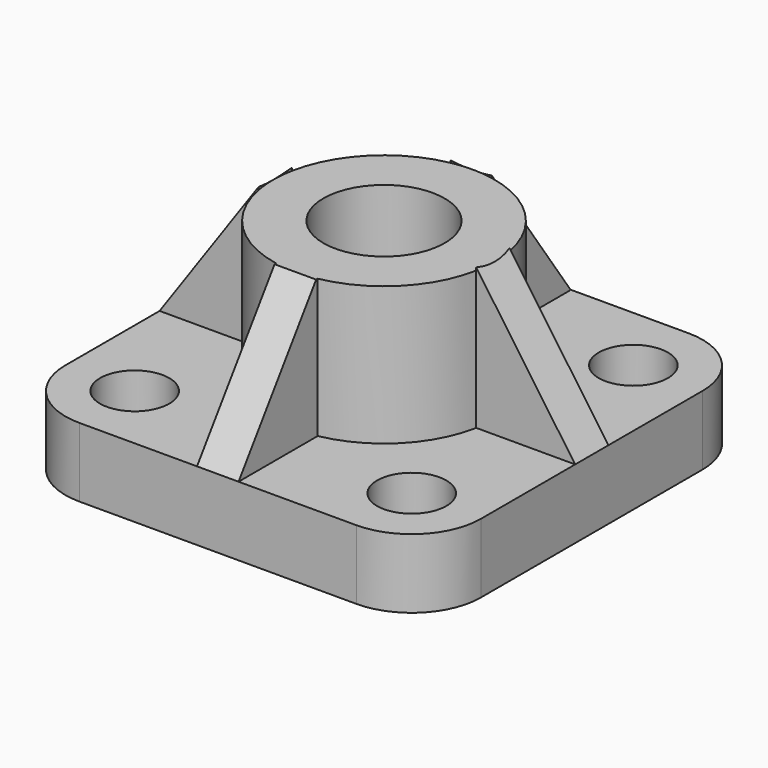
from build123d import *

# Parameters (mm, degrees)
F0_W      = 60
F0_H      = 60
F0_W_2    = 40
F0_H_2    = 40
F1_DEPTH  = 10
F2_R      = 10
F3_D      = 10
F3_DEPTH  = 10
F3_TIP    = 3.0043030951
F6_DEPTH  = 3
F4_R      = 16
F7_DEPTH  = 40
F9_DEPTH  = 3
F10_DEPTH = 40
F11_DEPTH = 20
F13_D     = 17.5
F13_DEPTH = 30
F13_TIP   = 5.2575304165
F15_DEPTH = 25


with BuildPart() as f1:
    # F0 (on Top) → F1 (new body)
    with BuildSketch(Plane.XY):
        Rectangle(F0_W, F0_H)
        Rectangle(F0_W_2, F0_H_2, mode=Mode.SUBTRACT)
        Rectangle(F0_W_2, F0_H_2)
    extrude(amount=F1_DEPTH)

    # F2
    f2_edges = [f1.edges().sort_by_distance(p)[0] for p in [
        (-30, 30, 5),
        (30, 30, 5),
        (30, -30, 5),
        (-30, -30, 5),
    ]]
    fillet(f2_edges, radius=F2_R)

    # F3
    with Locations(Plane(origin=(0, 0, 0), x_dir=(1, 0, 0), z_dir=(0, 0, -1))):
        with Locations((-20, -20), (20, -20), (20, 20), (-20, 20)):
            Hole(F3_D / 2, depth=F3_DEPTH)
            with Locations((0, 0, -(F3_DEPTH + F3_TIP / 2))):  # 118° drill point
                Cone(0, F3_D / 2, F3_TIP, mode=Mode.SUBTRACT)

    # F5 (on Front) → F6 (join, symmetric)
    with BuildSketch(Plane.XZ):
        Polygon((-30, 10), (-2, 10), (-2, 50), align=None)
        Polygon((2, 50), (2, 10), (30, 10), align=None)
    extrude(amount=F6_DEPTH, both=True)

    # F4 (on face) → F7 (cut)
    with BuildSketch(Plane.XY.offset(10)):
        Circle(F4_R)
    extrude(amount=F7_DEPTH, mode=Mode.SUBTRACT)

    # F8 (on Right) → F9 (join, symmetric)
    with BuildSketch(Plane.YZ):
        Polygon((2, 9.9271805957), (30, 9.9271805957), (2, 49.9271805957), align=None)
        Polygon((-2, 50), (-30, 10), (-2, 10), align=None)
    extrude(amount=F9_DEPTH, both=True)

    # F4 (on face) → F10 (cut)
    with BuildSketch(Plane.XY.offset(10)):
        Circle(F4_R)
    extrude(amount=F10_DEPTH, mode=Mode.SUBTRACT)

    # F4 (on face) → F11 (join)
    with BuildSketch(Plane.XY.offset(10)):
        Circle(F4_R)
    extrude(amount=F11_DEPTH)

    # F13
    with Locations(Plane.XY.offset(30)):
        with Locations((0, 0)):
            Hole(F13_D / 2, depth=F13_DEPTH)
            with Locations((0, 0, -(F13_DEPTH + F13_TIP / 2))):  # 118° drill point
                Cone(0, F13_D / 2, F13_TIP, mode=Mode.SUBTRACT)

    # F14 (on face) → F15 (cut)
    with BuildSketch(Plane.YZ.offset(3)):
        Polygon((-16, 30), (-15.7162336455, 30), (-15.7162336455, 30.4053805064), align=None)
    extrude(amount=-F15_DEPTH, mode=Mode.SUBTRACT)


solid = f1.part
